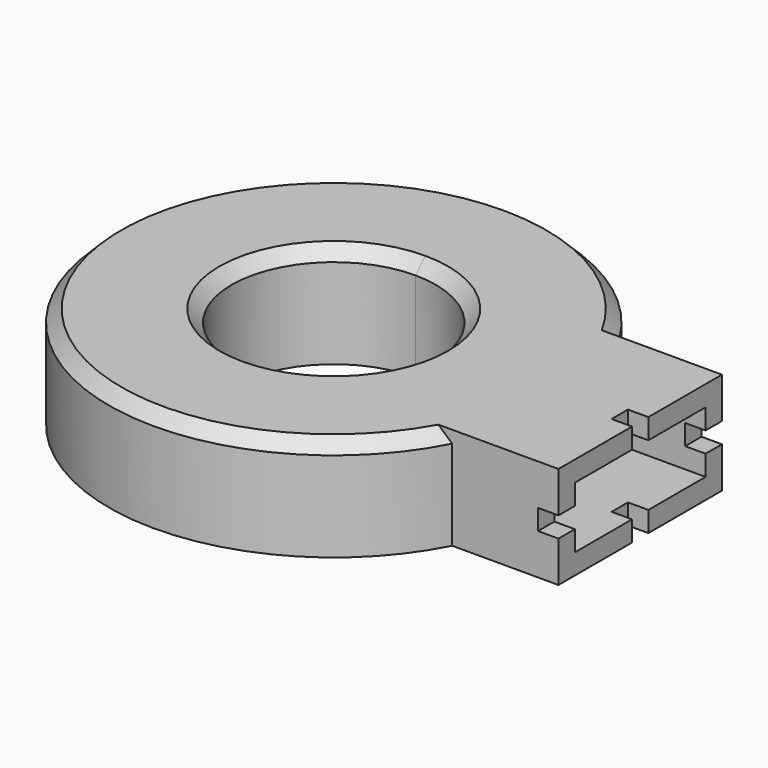
from build123d import *

# Parameters (mm, degrees)
F1_DEPTH = 5
F2_T     = -1
F3_DEPTH = 5
F5_DEPTH = 5.8358486101
F6_SIZE  = 0.6
F4_W     = 1
F4_H     = 1
F7_DEPTH = 1


with BuildPart() as f1:
    # F0 (on Top) → F1 (new body)
    with BuildSketch(Plane.XY):
        with BuildLine():
            ThreePointArc((0, -5), (-5, 0), (0, 5))
            Line((0, 5), (9.7979589711, 5))
            ThreePointArc((9.7979589711, 5), (-11, 0), (9.7979589711, -5))
            Line((9.7979589711, -5), (0, -5))
        make_face()
        with BuildLine():
            ThreePointArc((0, 5), (3.5355339059, 3.5355339059), (5, 0))
            ThreePointArc((5, 0), (3.5355339059, -3.5355339059), (0, -5))
            Line((0, -5), (9.7979589711, -5))
            ThreePointArc((9.7979589711, -5), (10.695268783, -2.5712303784), (11, 0))
            ThreePointArc((11, 0), (10.695268783, 2.5712303784), (9.7979589711, 5))
            Line((9.7979589711, 5), (0, 5))
        make_face()
    extrude(amount=F1_DEPTH)

    # F2
    f2_openings = [f1.faces().sort_by_distance(p)[0] for p in [
        (-9.520831, 4.858579, 0),
    ]]
    offset(amount=F2_T, openings=f2_openings)

    # F0 (on Top) → F3 (join)
    with BuildSketch(Plane.XY):
        with BuildLine():
            Line((15, 5), (9.7979589711, 5))
            ThreePointArc((9.7979589711, 5), (10.695268783, 2.5712303784), (11, 0))
            ThreePointArc((11, 0), (10.695268783, -2.5712303784), (9.7979589711, -5))
            Line((9.7979589711, -5), (15, -5))
            Line((15, -5), (15, 5))
        make_face()
    extrude(amount=F3_DEPTH)

    # F4 (on face) → F5 (cut, through all)
    with BuildSketch(Plane.YZ.offset(15)):
        Polygon((-4, 2), (-4, 1), (-0.5, 1), (0.5, 1), (4, 1), (4, 2), (4, 3), (4, 4), (0.5, 4), (-0.5, 4), (-4, 4), (-4, 3), align=None)
    extrude(amount=-F5_DEPTH, mode=Mode.SUBTRACT)

    # F6
    f6_edges = [f1.edges().sort_by_distance(p)[0] for p in [
        (-11, 0, 5),
        (0, -5, 5),
    ]]
    chamfer(f6_edges, length=F6_SIZE)

    # F4 (on face) → F7 (cut)
    with BuildSketch(Plane.YZ.offset(15)):
        with Locations((0, 4.5)):
            Rectangle(F4_W, F4_H)
        with Locations((-4.5, 2.5)):
            Rectangle(F4_W, F4_H)
        with Locations((0, 0.5)):
            Rectangle(F4_W, F4_H)
        with Locations((4.5, 2.5)):
            Rectangle(F4_W, F4_H)
    extrude(amount=-F7_DEPTH, mode=Mode.SUBTRACT)


solid = f1.part
